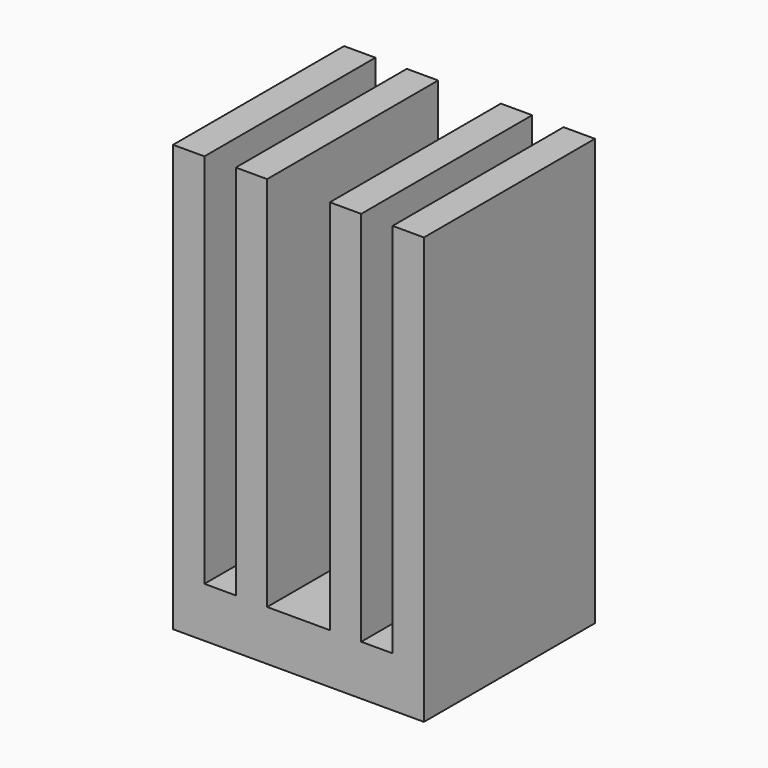
from build123d import *

# Parameters (mm, degrees)
F0_W     = 1.5875
F0_H     = 19.05
F1_DEPTH = 30.48
F2_DEPTH = 19.6596
F4_DEPTH = 10.8204


with BuildPart() as f1:
    # F0 (on Front) → F1 (new body)
    with BuildSketch(Plane.XZ):
        with Locations((-5.55625, 10.795)):
            Rectangle(F0_W, F0_H)
        Polygon((-4.7625, 1.27), (-6.35, 1.27), (-6.35, -1.27), (6.35, -1.27), (6.35, 1.27), (4.7625, 1.27), align=None)
        with Locations((5.55625, 10.795)):
            Rectangle(F0_W, F0_H)
    extrude(amount=F1_DEPTH)

    # F1_face (on face) → F2 (cut)
    with BuildSketch(Plane(origin=(0, -30.48, 7.040217), x_dir=(1, 0, 0), z_dir=(0, -1, 0))):
        Polygon((-6.35, 13.279783), (-6.35, -8.310217), (6.35, -8.310217), (6.35, 13.279783), (4.7625, 13.279783), (4.7625, -5.770217), (-4.7625, -5.770217), (-4.7625, 13.279783), align=None)
    extrude(amount=-F2_DEPTH, mode=Mode.SUBTRACT)

    # F3 (on Front) → F4 (join)
    with BuildSketch(Plane.XZ):
        Polygon((-1.5875, 20.338782), (-3.175, 20.338782), (-3.175, 1.288782), (-3.175, 0), (-1.5875, 0), (-1.5875, 1.288782), align=None)
        Polygon((3.175, 20.338782), (1.5875, 20.338782), (1.5875, 1.288782), (1.5875, 0), (3.175, 0), (3.175, 1.288782), align=None)
    extrude(amount=F4_DEPTH)


solid = f1.part
